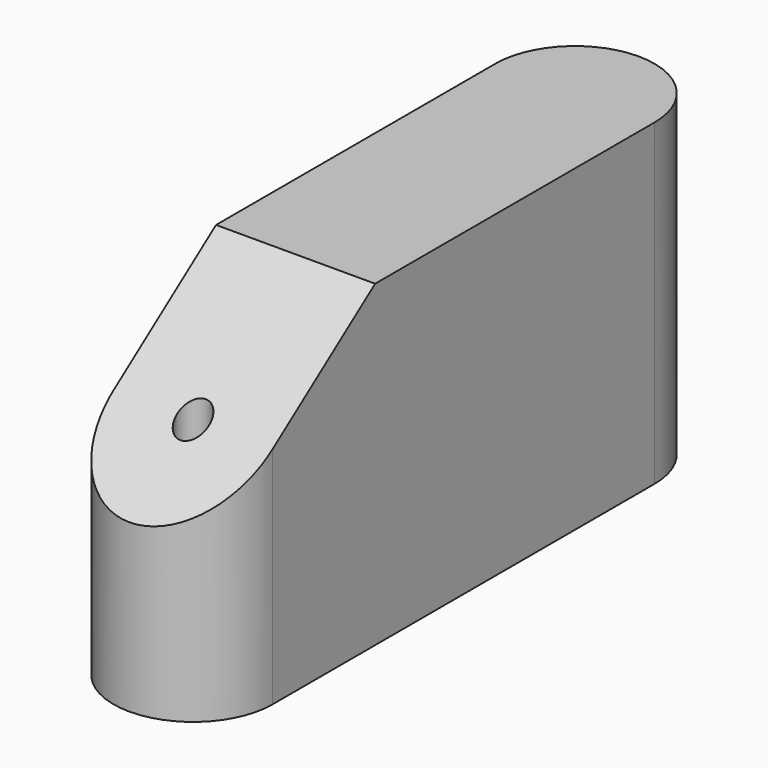
from build123d import *

# Parameters (mm, degrees)
F1_DEPTH      = 254
F3_DEPTH      = 254
F3_DEPTH_BACK = 254
F4_R          = 12.7
F5_DEPTH      = 254


with BuildPart() as f1:
    # F0 (on Top) → F1 (new body)
    with BuildSketch(Plane.XY):
        with BuildLine():
            Line((-63.5, 0), (63.5, 0))
            ThreePointArc((63.5, 0), (0, 63.5), (-63.5, 0))
        make_face()
        with BuildLine():
            Line((63.5, -381), (63.5, 0))
            ThreePointArc((63.5, 0), (0, -63.5), (-63.5, 0))
            Line((-63.5, 0), (-63.5, -381))
            ThreePointArc((-63.5, -381), (0, -317.5), (63.5, -381))
        make_face()
        with BuildLine():
            ThreePointArc((-63.5, 0), (0, -63.5), (63.5, 0))
            Line((63.5, 0), (-63.5, 0))
        make_face()
        with BuildLine():
            ThreePointArc((-63.5, -381), (0, -444.5), (63.5, -381))
            Line((63.5, -381), (-63.5, -381))
        make_face()
        with BuildLine():
            Line((-63.5, -381), (63.5, -381))
            ThreePointArc((63.5, -381), (0, -317.5), (-63.5, -381))
        make_face()
    extrude(amount=F1_DEPTH)

    # F2 (on Right) → F3 (cut, two sides)
    with BuildSketch(Plane.YZ) as f3_sk:
        Polygon((-487.0654642582, 308.1015944481), (-487.0654642582, 101.9910350442), (-204.5872807503, 308.1015944481), align=None)
    extrude(amount=-F3_DEPTH, mode=Mode.SUBTRACT)
    extrude(f3_sk.sketch, amount=F3_DEPTH_BACK, mode=Mode.SUBTRACT)

    # F4 (on Top) → F5 (cut)
    with BuildSketch(Plane.XY):
        with Locations((0, -381)):
            Circle(F4_R)
    extrude(amount=F5_DEPTH, mode=Mode.SUBTRACT)


solid = f1.part
